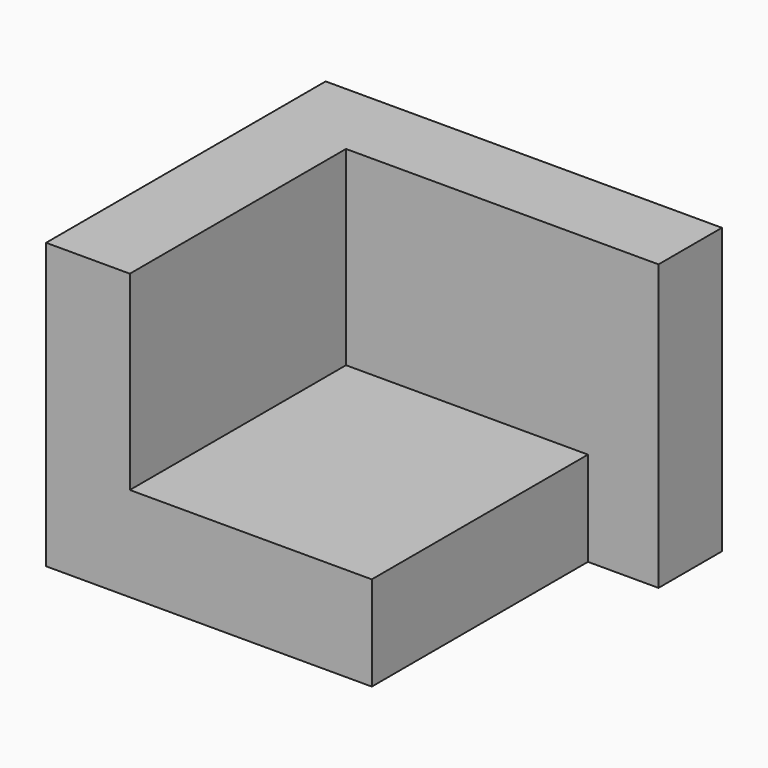
from build123d import *

# Parameters (mm, degrees)
F1_DEPTH = 36.2
F2_W     = 61.498966068
F2_H     = 68.6773248017
F3_DEPTH = 24


with BuildPart() as f1:
    # F0 (on Top) → F1 (new body, symmetric)
    with BuildSketch(Plane.XY):
        Polygon((50.3633767366, 24.2659896612), (50.3633767366, 44.4113351405), (-50.3633767366, 44.4113351405), (-50.3633767366, -44.4113351405), (-29.0734022856, -44.4113351405), (-29.0734022856, 24.2659896612), align=None)
    extrude(amount=F1_DEPTH, both=True)

    # F2 (on face) → F3 (join)
    with BuildSketch(Plane(origin=(0, 0, -36.2), x_dir=(1, 0, 0), z_dir=(0, 0, -1))):
        with Locations((1.6760807484, 10.0726727396)):
            Rectangle(F2_W, F2_H)
    extrude(amount=-F3_DEPTH)


solid = f1.part
